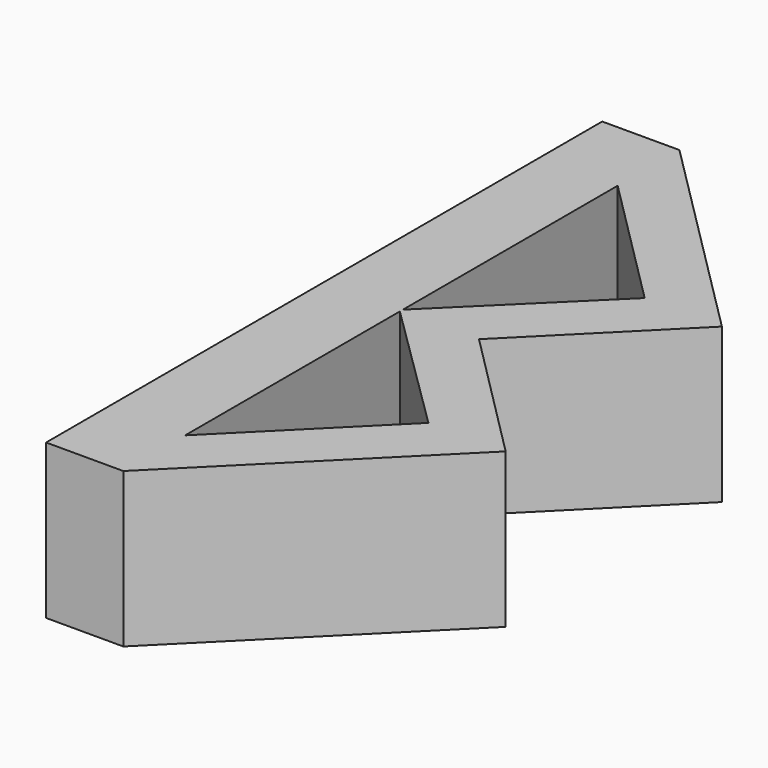
from build123d import *

# Parameters (mm, degrees)
F1_DEPTH = 8


with BuildPart() as f1:
    # F0 (on Top) → F1 (new body)
    with BuildSketch(Plane.XY):
        Polygon((4, 0), (0, 0), (0, -36), (4, -36), (15, -25), (8.01953, -18), (15, -11), align=None)
        Polygon((4, -32), (4, -18.1), (11, -25), align=None, mode=Mode.SUBTRACT)
        Polygon((4, -17.9), (4, -4), (11, -11), align=None, mode=Mode.SUBTRACT)
    extrude(amount=F1_DEPTH)


solid = f1.part
